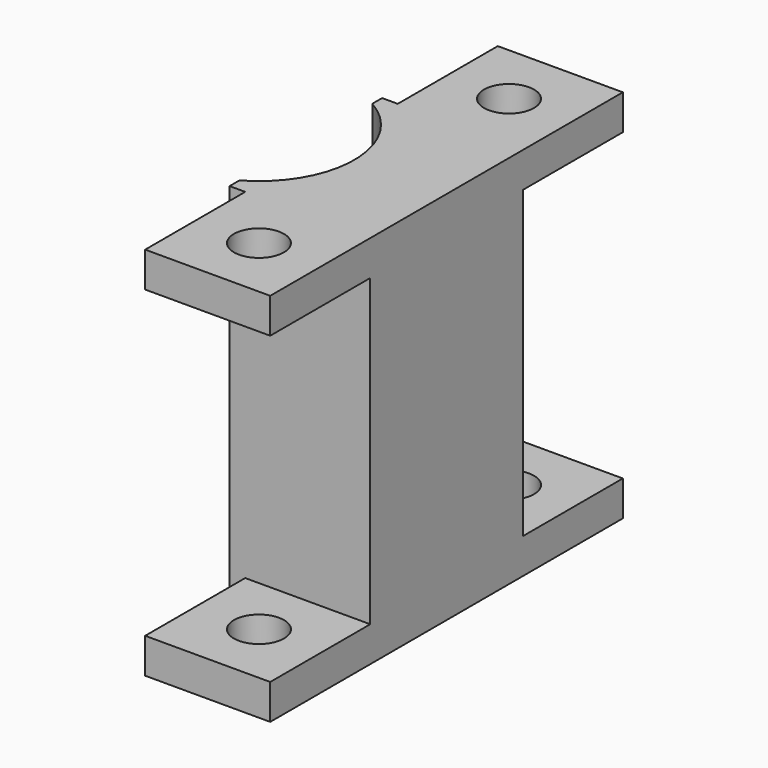
from build123d import *

# Parameters (mm, degrees)
SKETCH_R          = 1.6
PAD_DEPTH         = 12
SKETCH001_W       = 8
SKETCH001_H       = 32
POCKET_DEPTH      = 12.001
POCKET_DEPTH_BACK = 12.001
SKETCH002_W       = 24
SKETCH002_H       = 16
POCKET001_DEPTH   = 9.75


with BuildPart() as part:
    # Sketch → Pad (new body, symmetric)
    with BuildSketch(Plane.XY):
        with BuildLine():
            ThreePointArc((-6.1, -6.1), (0, 0), (-6.1, 6.1))
            Line((-6.1, 6.1), (-2.1, 6.1))
            Line((-2.1, 6.1), (-2.1, 14.1))
            Line((-2.1, 14.1), (5.9, 14.1))
            Line((5.9, 14.1), (5.9, -14.1))
            Line((-2.1, -14.1), (5.9, -14.1))
            Line((-2.1, -6.1), (-2.1, -14.1))
            Line((-6.1, -6.1), (-2.1, -6.1))
        make_face()
        with Locations((1.9, 10)):
            Circle(SKETCH_R, mode=Mode.SUBTRACT)
        with Locations((1.9, -10)):
            Circle(SKETCH_R, mode=Mode.SUBTRACT)
    extrude(amount=PAD_DEPTH, both=True)

    # Sketch001 → Pocket (cut, two sides)
    with BuildSketch(Plane.XY) as pocket_sk:
        with Locations((-7.1, 0)):
            Rectangle(SKETCH001_W, SKETCH001_H)
    extrude(amount=-POCKET_DEPTH, mode=Mode.SUBTRACT)
    extrude(pocket_sk.sketch, amount=POCKET_DEPTH_BACK, mode=Mode.SUBTRACT)

    # Sketch002 → Pocket001 (cut, symmetric)
    with BuildSketch(Plane.XY):
        with Locations((5.9, 14.1)):
            Rectangle(SKETCH002_W, SKETCH002_H)
        with Locations((5.9, -14.1)):
            Rectangle(SKETCH002_W, SKETCH002_H)
    extrude(amount=POCKET001_DEPTH, both=True, mode=Mode.SUBTRACT)


solid = part.part
